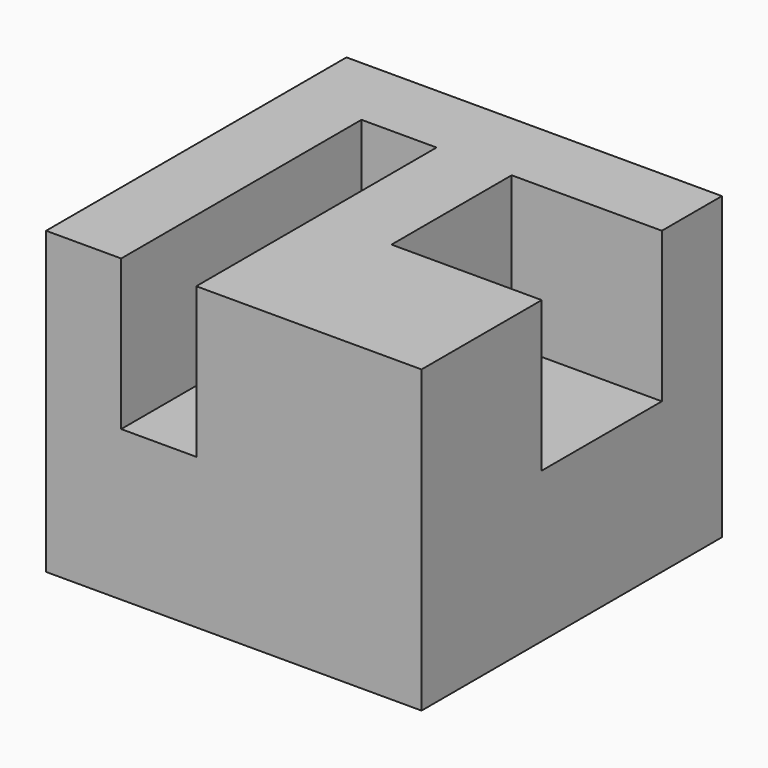
from build123d import *

# Parameters (mm, degrees)
F0_W     = 12.7
F0_H     = 25.4
F1_DEPTH = 12.7
F2_DEPTH = 63.5
F4_DEPTH = 25.4


with BuildPart() as f1:
    # F0 (on Front) → F1 (new body)
    with BuildSketch(Plane.XZ):
        Polygon((-19.05, 25.4), (-31.75, 25.4), (-31.75, -25.4), (6.35, -25.4), (6.35, 25.4), (-6.35, 25.4), (-6.35, 0), (-19.05, 0), align=None)
        with Locations((-12.7, 12.7)):
            Rectangle(F0_W, F0_H)
    extrude(amount=F1_DEPTH)

    # F0 (on Front) → F2 (join)
    with BuildSketch(Plane.XZ):
        Polygon((-19.05, 25.4), (-31.75, 25.4), (-31.75, -25.4), (6.35, -25.4), (6.35, 25.4), (-6.35, 25.4), (-6.35, 0), (-19.05, 0), align=None)
    extrude(amount=F2_DEPTH)

    # F3 (on face) → F4 (join)
    with BuildSketch(Plane.YZ.offset(6.35)):
        Polygon((-38.1, 0), (-38.1, 25.4), (-63.5, 25.4), (-63.5, -25.4), (0, -25.4), (0, 25.4), (-12.7, 25.4), (-12.7, 0), align=None)
    extrude(amount=F4_DEPTH)


solid = f1.part
